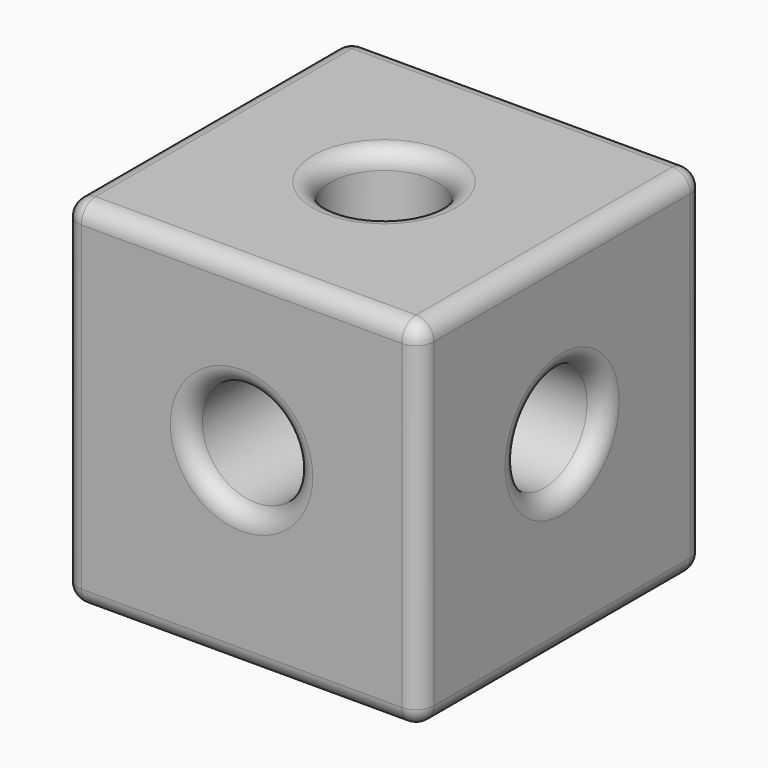
from build123d import *

# Parameters (mm, degrees)
F0_W     = 100
F0_H     = 100
F0_R     = 15
F1_DEPTH = 50
F2_R     = 15
F3_DEPTH = 100
F4_R     = 15
F5_DEPTH = 100
F6_R     = 5


with BuildPart() as f1:
    # F0 (on Front) → F1 (new body, symmetric)
    with BuildSketch(Plane.XZ):
        with Locations((0, -3.906250079)):
            Rectangle(F0_W, F0_H)
        Circle(F0_R, mode=Mode.SUBTRACT)
    extrude(amount=F1_DEPTH, both=True)

    # F2 (on face) → F3 (cut)
    with BuildSketch(Plane.YZ.offset(50)):
        Circle(F2_R)
    extrude(amount=-F3_DEPTH, mode=Mode.SUBTRACT)

    # F4 (on face) → F5 (cut)
    with BuildSketch(Plane.XY.offset(46.093749921)):
        Circle(F4_R)
    extrude(amount=-F5_DEPTH, mode=Mode.SUBTRACT)

    # F6
    f6_edges = [f1.edges().sort_by_distance(p)[0] for p in [
        (0, 50, -53.90625),
        (-50, 0, -53.90625),
        (50, 0, -53.90625),
        (0, -50, -53.90625),
        (-15, 0, -53.90625),
        (50, -50, -3.90625),
        (0, -50, 46.09375),
        (-50, -50, -3.90625),
        (-15, -50, 0),
        (50, 50, -3.90625),
        (50, 0, 46.09375),
        (50, -15, 0),
        (0, 50, 46.09375),
        (-50, 0, 46.09375),
        (-15, 0, 46.09375),
        (-50, 50, -3.90625),
        (-15, 50, 0),
        (-50, -15, 0),
    ]]
    fillet(f6_edges, radius=F6_R)


solid = f1.part
